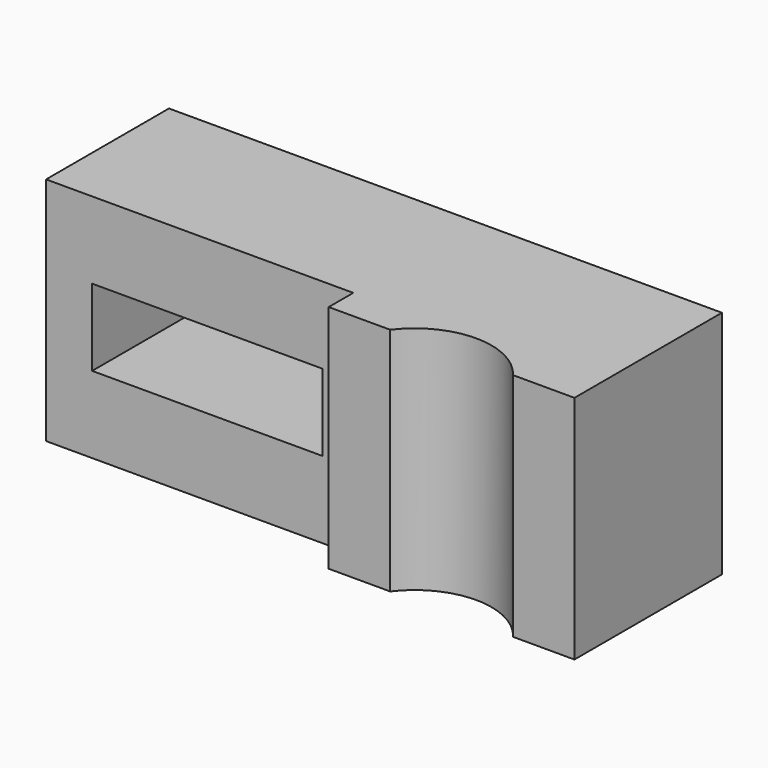
from build123d import *

# Parameters (mm, degrees)
F0_W     = 56
F0_H     = 30
F0_R     = 5
F1_DEPTH = 15
F2_W     = 56
F2_H     = 15
F3_DEPTH = 18
F4_W     = 15
F4_H     = 5
F5_DEPTH = 25
F6_W     = 2
F6_H     = 15
F7_DEPTH = 20
F8_W     = 12
F8_H     = 15
F9_DEPTH = 20


with BuildPart() as f1:
    # F0 (on Top) → F1 (new body)
    with BuildSketch(Plane.XY):
        Rectangle(F0_W, F0_H)
        Circle(F0_R, mode=Mode.SUBTRACT)
    extrude(amount=F1_DEPTH)

    # F2 (on face) → F3 (cut)
    with BuildSketch(Plane.XZ.offset(15)):
        with Locations((0, 7.5)):
            Rectangle(F2_W, F2_H)
    extrude(amount=-F3_DEPTH, mode=Mode.SUBTRACT)

    # F4 (on face) → F5 (cut)
    with BuildSketch(Plane(origin=(0, 15, 0), x_dir=(-1, 0, 0), z_dir=(0, 1, 0))):
        with Locations((17.5, 7.5)):
            Rectangle(F4_W, F4_H)
    extrude(amount=-F5_DEPTH, mode=Mode.SUBTRACT)

    # F6 (on face) → F7 (cut)
    with BuildSketch(Plane(origin=(-28, 0, 0), x_dir=(0, -1, 0), z_dir=(-1, 0, 0))):
        with Locations((-4, 7.5)):
            Rectangle(F6_W, F6_H)
    extrude(amount=-F7_DEPTH, mode=Mode.SUBTRACT)

    # F8 (on face) → F9 (cut)
    with BuildSketch(Plane.YZ.offset(28)):
        with Locations((9, 7.5)):
            Rectangle(F8_W, F8_H)
    extrude(amount=-F9_DEPTH, mode=Mode.SUBTRACT)


solid = f1.part
